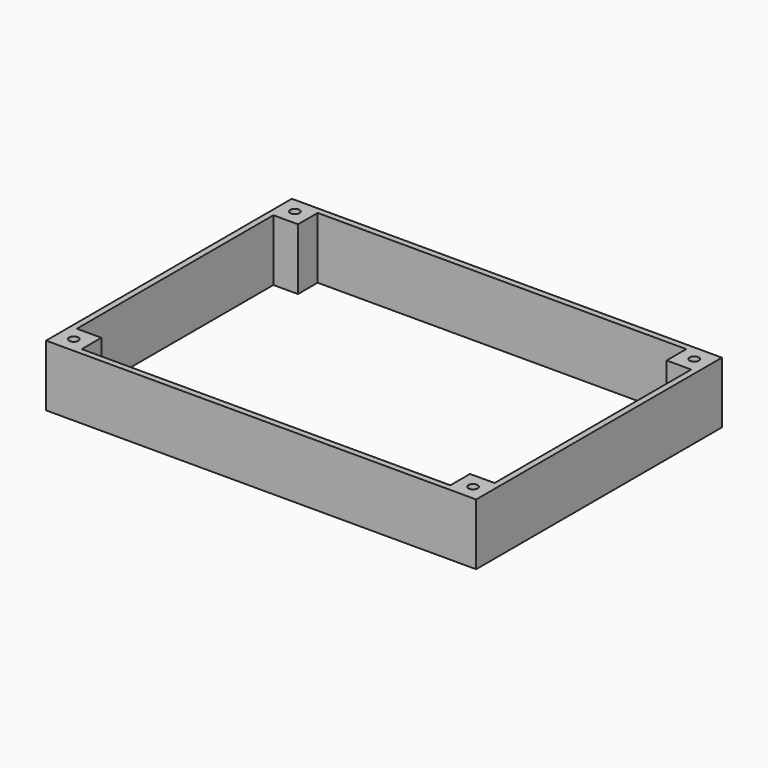
from build123d import *

# Parameters (mm, degrees)
F0_W     = 2
F0_H     = 80
F0_R     = 1.5
F0_W_2   = 120
F0_H_2   = 2
F0_H_3   = 40
F1_DEPTH = 20


with BuildPart() as f1:
    # F0 (on Top) → F1 (new body)
    with BuildSketch(Plane.XY):
        with Locations((69.537793, -4.311995)):
            Rectangle(F0_W, F0_H)
        Polygon((70.537793, -54.311995), (70.537793, -44.311995), (68.537793, -44.311995), (60.537793, -44.311995), (60.537793, -52.311995), (60.537793, -54.311995), align=None)
        with Locations((65.537793, -49.311995)):
            Circle(F0_R, mode=Mode.SUBTRACT)
        with Locations((0.537793, -53.311995)):
            Rectangle(F0_W_2, F0_H_2)
        with Locations((-68.462207, -24.311995)):
            Rectangle(F0_W, F0_H_3)
        Polygon((-67.462207, -44.311995), (-69.462207, -44.311995), (-69.462207, -54.311995), (-59.462207, -54.311995), (-59.462207, -52.311995), (-59.462207, -44.311995), align=None)
        with Locations((-64.462207, -49.311995)):
            Circle(F0_R, mode=Mode.SUBTRACT)
        with Locations((-68.462207, 15.688005)):
            Rectangle(F0_W, F0_H_3)
        Polygon((-59.462207, 45.688005), (-69.462207, 45.688005), (-69.462207, 35.688005), (-67.462207, 35.688005), (-59.462207, 35.688005), (-59.462207, 43.688005), align=None)
        with Locations((-64.462207, 40.688005)):
            Circle(F0_R, mode=Mode.SUBTRACT)
        with Locations((0.537793, 44.688005)):
            Rectangle(F0_W_2, F0_H_2)
        Polygon((70.537793, 45.688005), (60.537793, 45.688005), (60.537793, 43.688005), (60.537793, 35.688005), (68.537793, 35.688005), (70.537793, 35.688005), align=None)
        with Locations((65.537793, 40.688005)):
            Circle(F0_R, mode=Mode.SUBTRACT)
    extrude(amount=F1_DEPTH)


solid = f1.part
